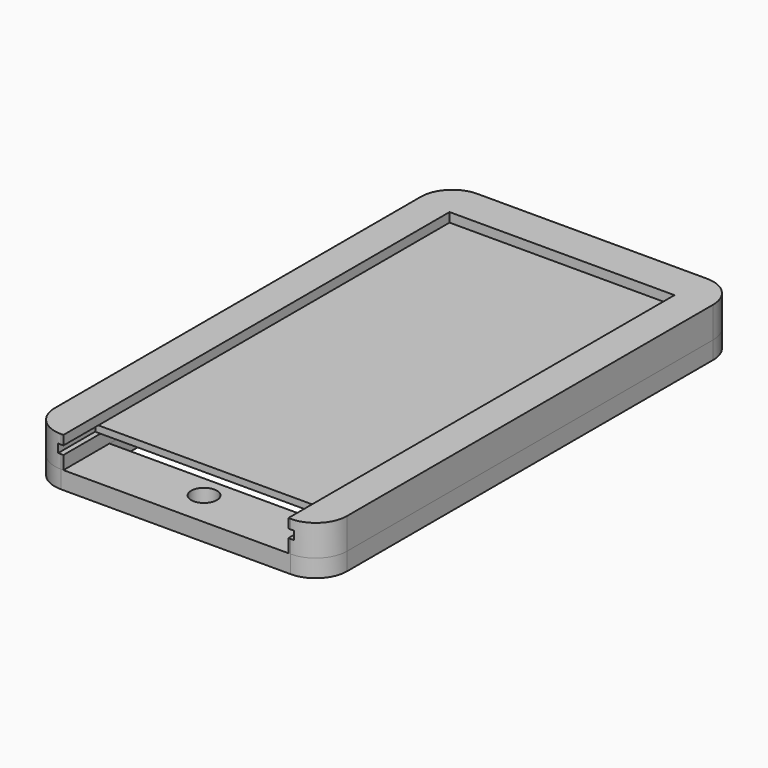
from build123d import *

# Parameters (mm, degrees)
SKETCH001_R  = 2.9
SKETCH001_W  = 50.8
SKETCH001_H  = 96
PAD001_DEPTH = 4
SKETCH_W     = 53.2
SKETCH_H     = 114
PAD_DEPTH    = 1.9
PAD002_DEPTH = 7
SKETCH004_W  = 53
SKETCH004_H  = 101
PAD004_DEPTH = 1.5


with BuildPart() as pad001:
    # Sketch001 → Pad001 (new body)
    with BuildSketch(Plane.XY):
        with BuildLine():
            Line((-25.928932, 58.75), (25.928932, 58.75))
            ThreePointArc((33, 51.678932), (30.928932, 56.678932), (25.928932, 58.75))
            Line((33, 51.678932), (33, -51.678932))
            ThreePointArc((25.928932, -58.75), (30.928932, -56.678932), (33, -51.678932))
            Line((25.928932, -58.75), (-25.928932, -58.75))
            ThreePointArc((-33, -51.678932), (-30.928932, -56.678932), (-25.928932, -58.75))
            Line((-33, -51.678932), (-33, 51.678932))
            ThreePointArc((-25.928932, 58.75), (-30.928932, 56.678932), (-33, 51.678932))
        make_face()
        with Locations((0, -50.8)):
            Circle(SKETCH001_R, mode=Mode.SUBTRACT)
        with Locations((0, 2.25)):
            Rectangle(SKETCH001_W, SKETCH001_H, mode=Mode.SUBTRACT)
    extrude(amount=PAD001_DEPTH)


with BuildPart() as pad:
    # Sketch → Pad (new body)
    with BuildSketch(Plane.XY.offset(7)):
        with Locations((0, -3)):
            Rectangle(SKETCH_W, SKETCH_H)
    extrude(amount=PAD_DEPTH)


with BuildPart() as cut:
    # Sketch002 → Pad002 (new body)
    with BuildSketch(Plane.XY.offset(4)):
        with BuildLine():
            Line((-25.928932, 58.75), (25.928932, 58.75))
            ThreePointArc((33, 51.678932), (30.928932, 56.678932), (25.928932, 58.75))
            Line((33, 51.678932), (33, -51.678932))
            ThreePointArc((25.928932, -58.75), (30.928932, -56.678932), (33, -51.678932))
            Line((25.4, -58.75), (25.928932, -58.75))
            Line((25.4, 50.25), (25.4, -58.75))
            Line((-25.4, 50.25), (25.4, 50.25))
            Line((-25.4, 50.25), (-25.4, -58.75))
            Line((-25.4, -58.75), (-25.928933, -58.75))
            ThreePointArc((-33, -51.678931), (-30.928933, -56.678931), (-25.928933, -58.75))
            Line((-33, -51.678931), (-33, 51.678932))
            ThreePointArc((-25.928932, 58.75), (-30.928932, 56.678932), (-33, 51.678932))
        make_face()
    extrude(amount=PAD002_DEPTH)

    # Cut: cut Pad
    add(pad.part, mode=Mode.SUBTRACT)


with BuildPart() as pad004:
    # Sketch004 → Pad004 (new body)
    with BuildSketch(Plane.XY.offset(7)):
        with Locations((0, 2.2)):
            Rectangle(SKETCH004_W, SKETCH004_H)
    extrude(amount=PAD004_DEPTH)


solid = Compound([pad001.part, cut.part, pad004.part])
